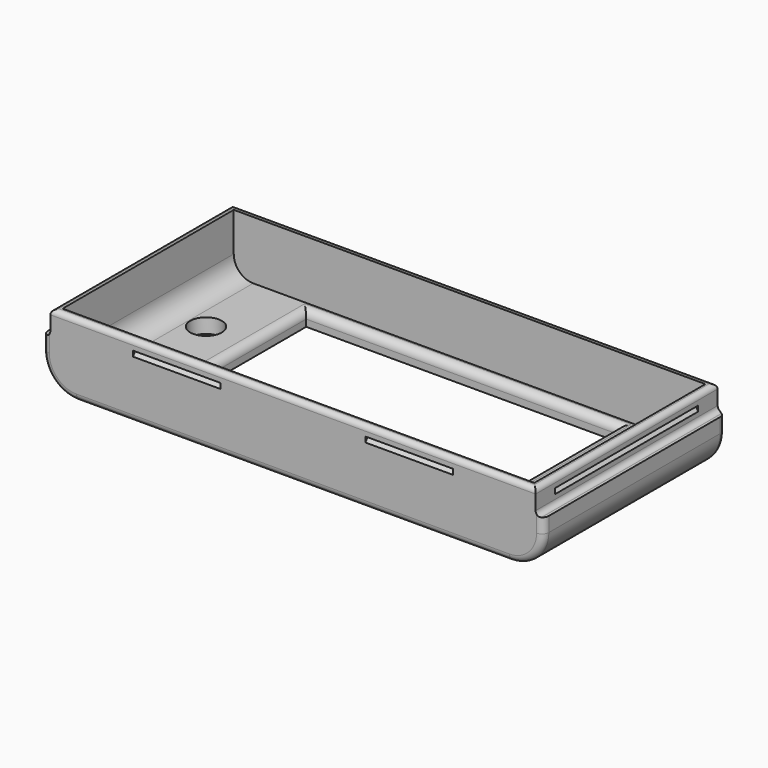
from build123d import *

# Parameters (mm, degrees)
SKETCH010_W       = 103
SKETCH010_H       = 15
PAD005_DEPTH      = 25
PAD005_DEPTH_BACK = 25
FILLET004_R       = 7
THICKNESS001_T    = -3
SKETCH011_W       = 64
SKETCH011_H       = 40
POCKET002_DEPTH   = 3.001
SKETCH012_W       = 103
SKETCH012_H       = 50
SKETCH012_W_2     = 99.8
SKETCH012_H_2     = 46.8
POCKET003_DEPTH   = 5
SKETCH111_W       = 103
SKETCH111_H       = 1.6
POCKET046_DEPTH   = 10.001
FILLET005_R       = 1.4
FILLET042_R       = 1
SKETCH052_R       = 3.25
SKETCH052_W       = 2
SKETCH052_H       = 24
POCKET021_DEPTH   = 15.001
POCKET_START      = -5
POCKET_DEPTH      = 36.8
POCKET044_START   = -17
POCKET044_DEPTH   = 18
FILLET052_R       = 1.6


with BuildPart() as part:
    # Sketch010 → Pad005 (new body, two sides)
    with BuildSketch(Plane.XZ) as pad005_sk:
        Rectangle(SKETCH010_W, SKETCH010_H)
    extrude(amount=-PAD005_DEPTH)
    extrude(pad005_sk.sketch, amount=PAD005_DEPTH_BACK)

    # Fillet004
    fillet004_edges = [part.edges().sort_by_distance(p)[0] for p in [
        (-51.5, 0, -7.5),
        (51.5, 0, -7.5),
    ]]
    fillet(fillet004_edges, radius=FILLET004_R)

    # Thickness001
    thickness001_openings = [part.faces().sort_by_distance(p)[0] for p in [
        (0, 0, 7.5),
    ]]
    offset(amount=THICKNESS001_T, openings=thickness001_openings)

    # Sketch011 (on Face15 of Thickness001) → Pocket002 (cut, through all)
    with BuildSketch(Plane.XY.offset(-4.5)):
        Rectangle(SKETCH011_W, SKETCH011_H)
    extrude(amount=-POCKET002_DEPTH, mode=Mode.SUBTRACT)

    # Sketch012 (on Face4 of Pocket002) → Pocket003 (cut)
    with BuildSketch(Plane.XY.offset(7.5)):
        Rectangle(SKETCH012_W, SKETCH012_H)
        Rectangle(SKETCH012_W_2, SKETCH012_H_2, mode=Mode.SUBTRACT)
    extrude(amount=-POCKET003_DEPTH, mode=Mode.SUBTRACT)

    # Sketch111 (on Face5 of Pocket003) → Pocket046 (cut, through all)
    with BuildSketch(Plane.XY.offset(2.5)):
        with Locations((0, -24.2)):
            Rectangle(SKETCH111_W, SKETCH111_H)
        with Locations((0, 24.2)):
            Rectangle(SKETCH111_W, SKETCH111_H)
    extrude(amount=-POCKET046_DEPTH, mode=Mode.SUBTRACT)

    # Fillet005
    fillet005_edges = [part.edges().sort_by_distance(p)[0] for p in [
        (-51.5, 0, -0.5),
        (0, -23.4, -7.5),
        (-44.5, 0, -7.5),
        (0, 23.4, -7.5),
    ]]
    fillet(fillet005_edges, radius=FILLET005_R)

    # Fillet042
    fillet042_edges = [part.edges().sort_by_distance(p)[0] for p in [
        (0, 23.4, 7.5),
        (49.9, 0, 7.5),
        (-49.9, 0, 7.5),
        (-49.9, 0, 2.5),
        (49.9, 0, 2.5),
        (0, -23.4, 7.5),
    ]]
    fillet(fillet042_edges, radius=FILLET042_R)

    # Sketch052 (on Face20 of Fillet005) → Pocket021 (cut, through all)
    with BuildSketch(Plane(origin=(0, 0, -7.5), x_dir=(1, 0, 0), z_dir=(0, 0, -1))):
        with Locations((-41, -5.5)):
            Circle(SKETCH052_R)
        with Locations((36, 0)):
            Rectangle(SKETCH052_W, SKETCH052_H)
        with Locations((39.5, 0)):
            Rectangle(SKETCH052_W, SKETCH052_H)
        with Locations((43, 0)):
            Rectangle(SKETCH052_W, SKETCH052_H)
    extrude(amount=-POCKET021_DEPTH, mode=Mode.SUBTRACT)

    # Sketch013 (on Face10 of Pocket003) → Pocket (cut)
    with BuildSketch(Plane.XZ.offset(23.4).offset(POCKET_START)):
        Polygon((49.9, 5.55), (49.9, 4.45), (49.15, 5.55), align=None)
        Polygon((-49.15, 5.55), (-49.9, 5.55), (-49.9, 4.45), align=None)
    extrude(amount=-POCKET_DEPTH, mode=Mode.SUBTRACT)

    # Sketch014 (on Face8 of Fillet042) → Pocket044 (cut)
    with BuildSketch(Plane.YZ.offset(49.9).offset(POCKET044_START)):
        Polygon((23.4, 5.55), (23.4, 4.45), (22.65, 5.55), align=None)
        Polygon((-23.4, 5.55), (-23.4, 4.45), (-22.65, 5.55), align=None)
    pocket044 = extrude(amount=-POCKET044_DEPTH, mode=Mode.SUBTRACT)

    # Mirrored011: Pocket044 across YZ
    add(pocket044.mirror(Plane.YZ), mode=Mode.SUBTRACT)

    # Fillet052
    fillet052_edges = [part.edges().sort_by_distance(p)[0] for p in [
        (-32, 0, -4.5),
        (0, 20, -4.5),
        (32, 0, -4.5),
        (0, -20, -4.5),
    ]]
    fillet(fillet052_edges, radius=FILLET052_R)


with BuildPart() as part_1:
    # Body002 placement: moved
    add(part.part.moved(Location((0, 0, -46.5))))


solid = part_1.part
